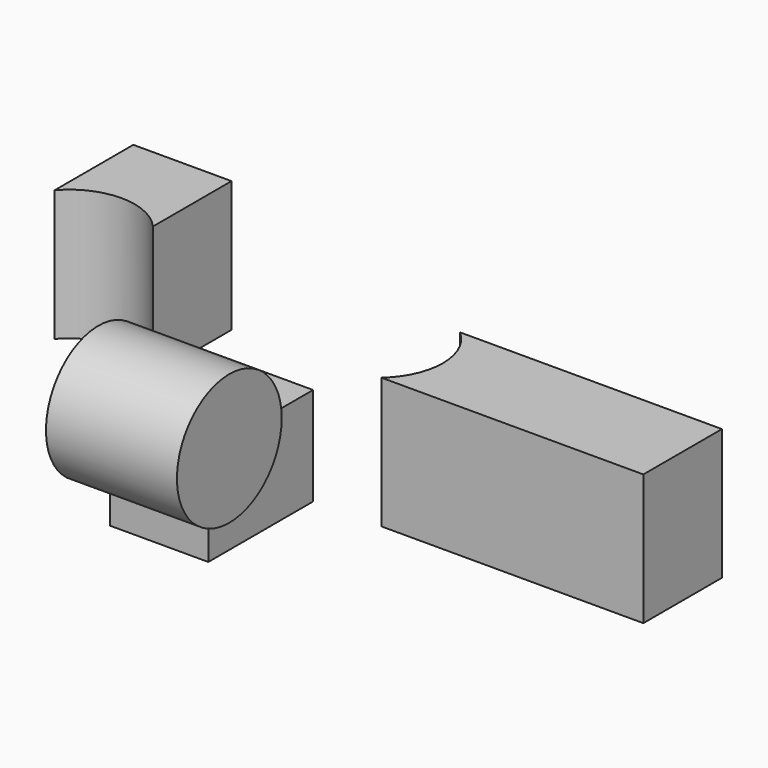
from build123d import *

# Parameters (mm, degrees)
F0_W      = 38.1
F0_H      = 38.1
F1_DEPTH  = 50.8
F2_W      = 38.1
F2_H      = 38.1
F3_DEPTH  = 50.8
F4_R      = 25.4
F5_DEPTH  = 50.8
F7_DEPTH  = 67.448851
F8_W      = 38.1
F8_H      = 50.8
F9_DEPTH  = 101.6
F11_DEPTH = 50.801


with BuildPart() as f1:
    # F0 (on Front) → F1 (new body)
    with BuildSketch(Plane.XZ):
        Rectangle(F0_W, F0_H)
    extrude(amount=F1_DEPTH)


with BuildPart() as f3:
    # F2 (on Top) → F3 (new body)
    with BuildSketch(Plane.XY):
        with Locations((-66.782912, 24.881722)):
            Rectangle(F2_W, F2_H)
    extrude(amount=F3_DEPTH)

    # F6 (on face) → F7 (cut, through all)
    with BuildSketch(Plane(origin=(0, 0, 0), x_dir=(1, 0, 0), z_dir=(0, 0, -1))):
        with BuildLine():
            Line((-47.732912, -5.831722), (-85.832912, -5.831722))
            ThreePointArc((-85.832912, -5.831722), (-66.782912, -14.431202), (-47.732912, -5.831722))
        make_face()
    extrude(amount=-F7_DEPTH, mode=Mode.SUBTRACT)


with BuildPart() as f5:
    # F4 (on Right) → F5 (new body)
    with BuildSketch(Plane.YZ):
        with Locations((-80.302887, 42.047851)):
            Circle(F4_R)
    extrude(amount=F5_DEPTH)


with BuildPart() as f9:
    # F8 (on Right) → F9 (new body)
    with BuildSketch(Plane.YZ):
        with Locations((76.012058, -31.501092)):
            Rectangle(F8_W, F8_H)
    extrude(amount=F9_DEPTH)

    # F10 (on face) → F11 (cut, through all)
    with BuildSketch(Plane.XY.offset(-6.101092)):
        with BuildLine():
            Line((0, 95.062058), (0, 56.962058))
            ThreePointArc((0, 56.962058), (8.599479, 76.012058), (0, 95.062058))
        make_face()
    extrude(amount=-F11_DEPTH, mode=Mode.SUBTRACT)


solid = Compound([f1.part, f3.part, f5.part, f9.part])
